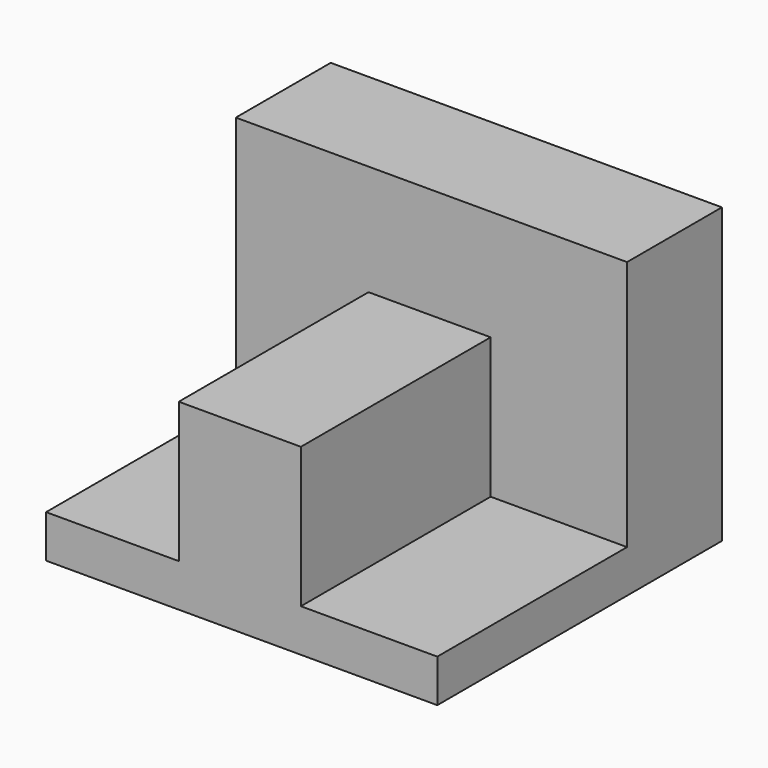
from build123d import *

# Parameters (mm, degrees)
F0_W     = 83.78825
F0_H     = 62.896747
F1_DEPTH = 25.4
F3_DEPTH = 50.8


with BuildPart() as f1:
    # F0 (on Front) → F1 (new body)
    with BuildSketch(Plane.XZ):
        with Locations((2e-06, -1.333499)):
            Rectangle(F0_W, F0_H)
    extrude(amount=-F1_DEPTH)

    # F2 (on face) → F3 (join)
    with BuildSketch(Plane.XZ):
        Polygon((-13.477136, -23.624279), (-41.894123, -23.624279), (-41.894123, -32.781873), (41.894127, -32.781873), (41.894127, -23.624279), (12.679131, -23.624279), (12.679131, 6.43591), (-13.477136, 6.43591), align=None)
    extrude(amount=F3_DEPTH)


solid = f1.part
